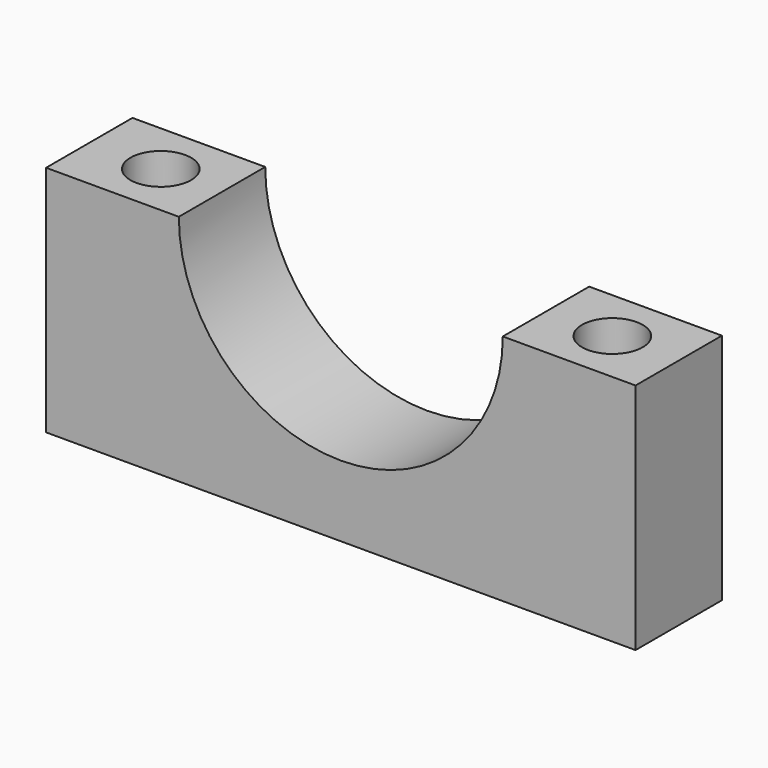
from build123d import *

# Parameters (mm, degrees)
F0_W     = 138.64535
F0_H     = 54.796886
F1_DEPTH = 25.4
F3_D     = 76.2
F5_D     = 14.2748


with BuildPart() as f1:
    # F0 (on Front) → F1 (new body)
    with BuildSketch(Plane.XZ):
        with Locations((0, -27.398443)):
            Rectangle(F0_W, F0_H)
    extrude(amount=F1_DEPTH)

    # F3 (through all)
    with Locations(Plane.XZ.offset(25.4)):
        with Locations((0, 0)):
            Hole(F3_D / 2)

    # F5 (through all)
    with Locations(Plane.XY):
        with Locations((53.711338, -12.7), (-52.589513, -12.598515)):
            Hole(F5_D / 2)


solid = f1.part
